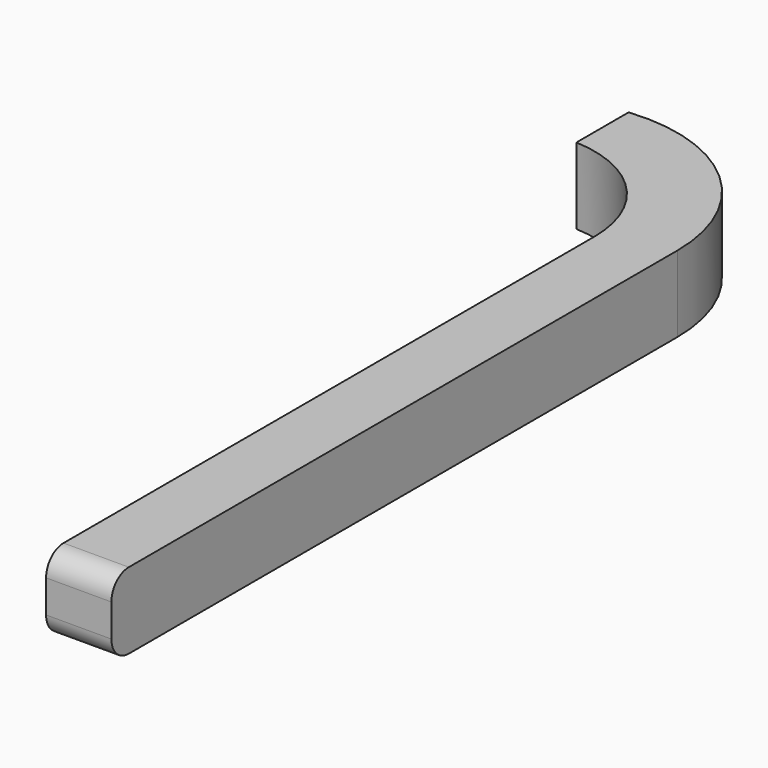
from build123d import *

# Parameters (mm, degrees)
F1_DEPTH = 7
F2_R     = 2


with BuildPart() as f1:
    # F0 (on Top) → F1 (new body)
    with BuildSketch(Plane.XY):
        with BuildLine():
            Line((-3, -5.795699), (0, -5.795699))
            Line((0, -5.795699), (3, -5.795699))
            Line((3, -5.795699), (3, 59.204301))
            ThreePointArc((3, 59.204301), (-1.833449, 70.086892), (-13.148304, 73.797293))
            Line((-13.148304, 73.797293), (-13.148304, 67.797293))
            ThreePointArc((-13.148304, 67.797293), (-5.946489, 64.539142), (-3, 57.204301))
            Line((-3, 57.204301), (-3, -5.795699))
        make_face()
    extrude(amount=F1_DEPTH)

    # F2
    f2_edges = [f1.edges().sort_by_distance(p)[0] for p in [
        (0, -5.795699, 7),
        (0, -5.795699, 0),
    ]]
    fillet(f2_edges, radius=F2_R)


solid = f1.part
